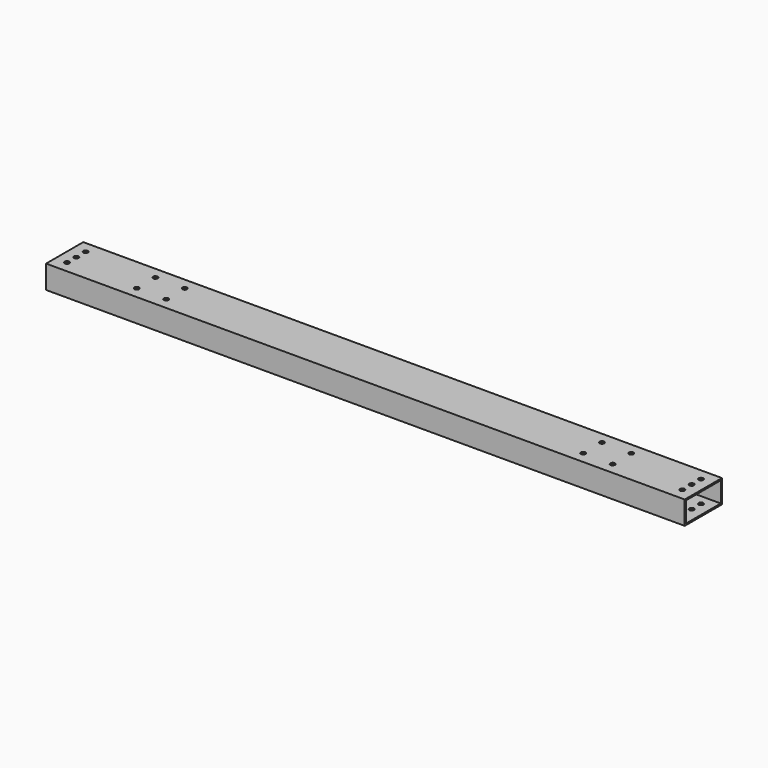
from build123d import *

# Parameters (mm, degrees)
F0_W     = 697.8
F0_H     = 50.8
F0_R     = 2.5527
F1_DEPTH = 25.4
F2_W     = 47.625
F2_H     = 22.225
F3_DEPTH = 697.801
F4_R     = 2.5527
F5_DEPTH = 25.4


with BuildPart() as f1:
    # F0 (on Top) → F1 (new body)
    with BuildSketch(Plane.XY):
        Rectangle(F0_W, F0_H)
        with Locations((-336.2, -12.7)):
            Circle(F0_R, mode=Mode.SUBTRACT)
        with Locations((-336.2, 0)):
            Circle(F0_R, mode=Mode.SUBTRACT)
        with Locations((336.2, -12.7)):
            Circle(F0_R, mode=Mode.SUBTRACT)
        with Locations((336.2, 0)):
            Circle(F0_R, mode=Mode.SUBTRACT)
        with Locations((-336.2, 12.7)):
            Circle(F0_R, mode=Mode.SUBTRACT)
        with Locations((336.2, 12.7)):
            Circle(F0_R, mode=Mode.SUBTRACT)
    extrude(amount=F1_DEPTH)

    # F2 (on face) → F3 (cut, through all)
    with BuildSketch(Plane(origin=(-348.9, 0, 0), x_dir=(0, -1, 0), z_dir=(-1, 0, 0))):
        with Locations((0, 12.7)):
            Rectangle(F2_W, F2_H)
    extrude(amount=-F3_DEPTH, mode=Mode.SUBTRACT)

    # F4 (on face) → F5 (cut)
    with BuildSketch(Plane.XY.offset(25.4)):
        with Locations((-227.8436, 12.7)):
            Circle(F4_R)
        with Locations((-227.8436, -12.7)):
            Circle(F4_R)
        with Locations((-260, -12.7)):
            Circle(F4_R)
        with Locations((-260, 12.7)):
            Circle(F4_R)
        with Locations((227.8436, 12.7)):
            Circle(F4_R)
        with Locations((260, -12.7)):
            Circle(F4_R)
        with Locations((227.8436, -12.7)):
            Circle(F4_R)
        with Locations((260, 12.7)):
            Circle(F4_R)
    extrude(amount=-F5_DEPTH, mode=Mode.SUBTRACT)


solid = f1.part
